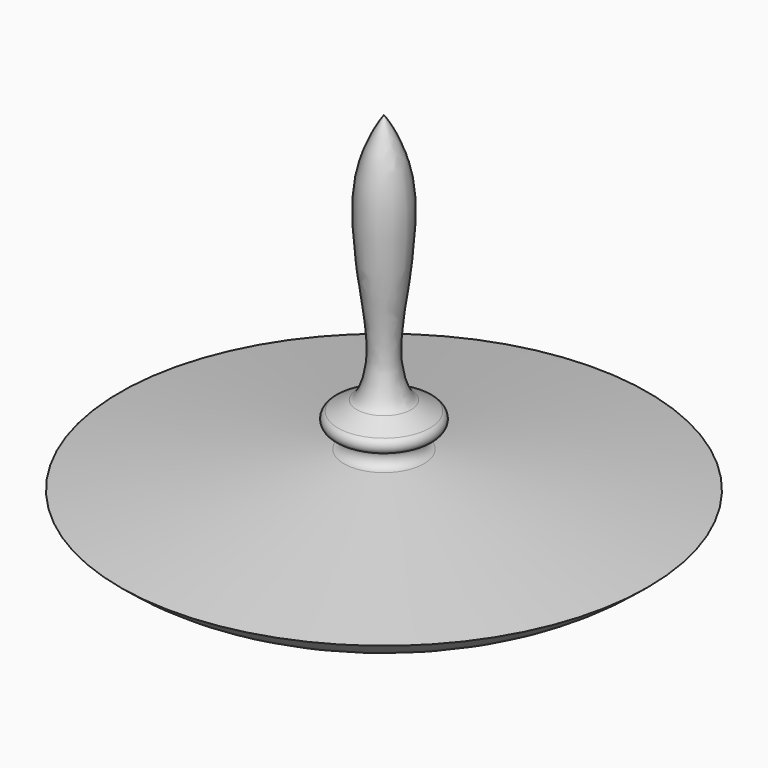
from build123d import *


with BuildPart() as f1:
    # F0 (on Front) → F1 (revolve)
    with BuildSketch(Plane.XZ):
        with BuildLine():
            Line((0, 38.1), (0, 0))
            add(Edge.make_bspline(
                [(0, 0), (1.9328783048, 1.9767367336), (7.8327450038, 1.9371201849), (16.7594149129, 2.1266939012), (21.9495107251, 3.3387201234), (25.4, 6.35)],
                knots=[0, 0, 0, 0, 0.3159112392, 0.6469657512, 1, 1, 1, 1], degree=3))
            Line((25.4, 6.35), (3.8504353724, 9.8037719727))
            ThreePointArc((3.8504353724, 9.8037719727), (3.0728535717, 10.8185442544), (4.0435965079, 11.6504423204))
            ThreePointArc((4.0435965079, 11.6504423204), (4.7780737416, 12.1811355913), (4.4207540341, 13.0138508976))
            Line((4.4207540341, 13.0138508976), (2.6096221991, 13.9804389328))
            add(Edge.make_bspline(
                [(2.6096221991, 13.9804389328), (2.0984984756, 14.2259825319), (0.7949455822, 17.2374525929), (2.0841469684, 24.2626695119), (2.6600461386, 31.3937561213), (1.5827669807, 35.365010827), (0.5037554894, 37.4125468401), (0, 38.1)],
                knots=[0, 0, 0, 0, 0.1597534785, 0.4109847833, 0.6574345405, 0.8418056283, 1, 1, 1, 1], degree=3))
        make_face()
    revolve(axis=Axis((0, 0, 15.2466539294), (0, 0, 1)))


solid = f1.part
